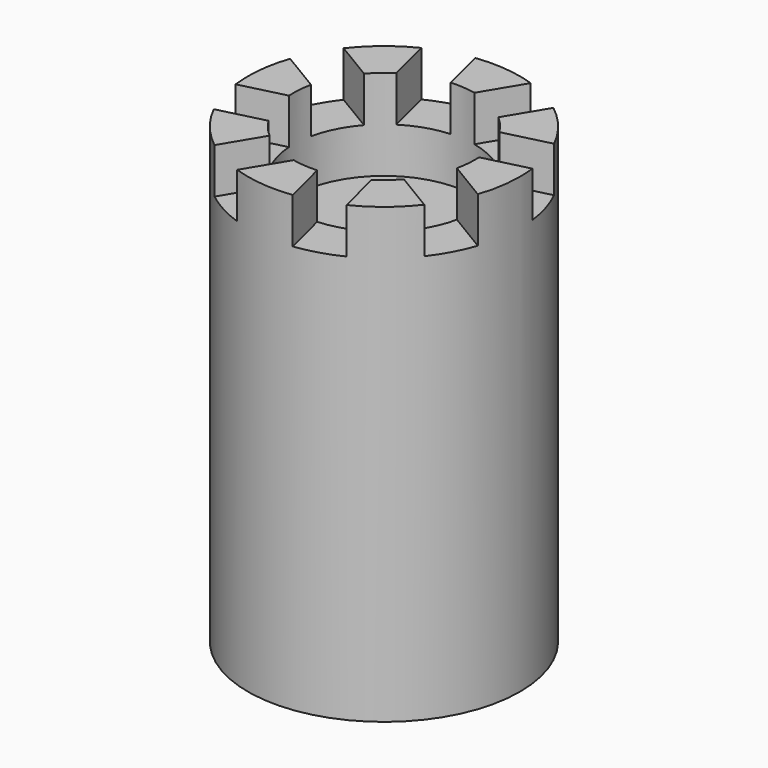
from build123d import *

# Parameters (mm, degrees)
BOX_W               = 20
BOX_H               = 10
BOX_DEPTH           = 10
BOX_PLACEMENT_ANGLE = 14
ARRAY_COUNT         = 8
CYLINDER001_R       = 20
CYLINDER001_DEPTH   = 20
CYLINDER_R          = 30
CYLINDER_DEPTH      = 100


with BuildPart() as obj1:
    # Box → Box (new body)
    with BuildSketch(Plane.XY):
        with Locations((10, 5)):
            Rectangle(BOX_W, BOX_H)
    extrude(amount=BOX_DEPTH)


with BuildPart() as obj1_1:
    # Box placement: moved
    add(obj1.part.moved(Location((15, 0, 90))).rotate(Axis((15, 0, 90), (0, 0, 1)), BOX_PLACEMENT_ANGLE))

    # Array: obj1 ×8 about axis
    array_axis = Axis((0, 0, 1), (0, 0, 1))


with BuildPart() as obj1_2:
    add(obj1_1.part)
    for i in range(1, ARRAY_COUNT):
        add(obj1_1.part.rotate(array_axis, i * 360 / ARRAY_COUNT))


with BuildPart() as cylinder001:
    # Cylinder001 → Cylinder001 (new body)
    with BuildSketch(Plane.XY.offset(80)):
        Circle(CYLINDER001_R)
    extrude(amount=CYLINDER001_DEPTH)


with BuildPart() as torre:
    # Cylinder → Cylinder (new body)
    with BuildSketch(Plane.XY):
        Circle(CYLINDER_R)
    extrude(amount=CYLINDER_DEPTH)

    # Cut: cut Cylinder001
    add(cylinder001.part, mode=Mode.SUBTRACT)

    # Cut001: cut obj1
    add(obj1_2.part, mode=Mode.SUBTRACT)


solid = torre.part
